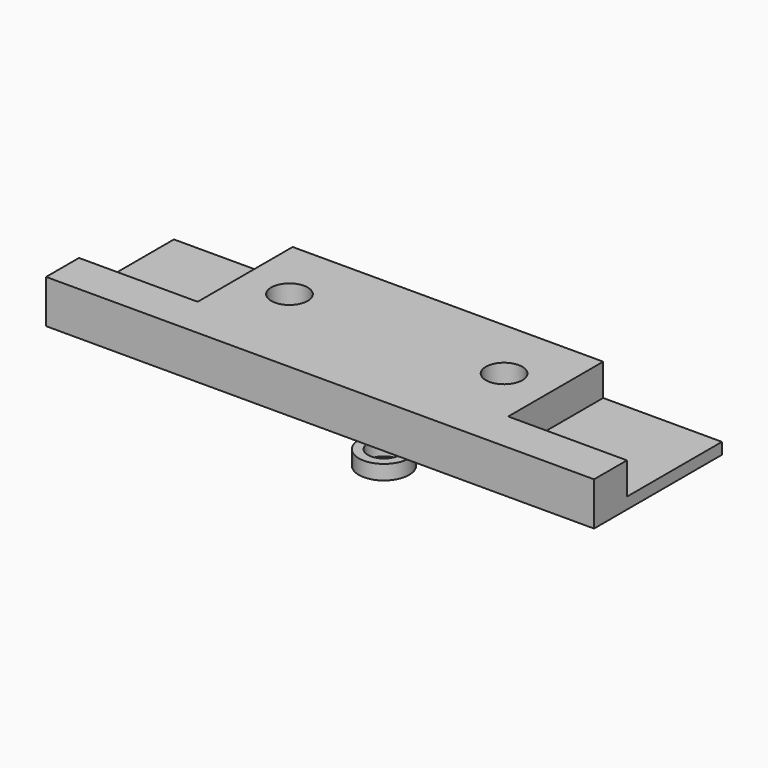
from build123d import *

# Parameters (mm, degrees)
SKETCH_W        = 60
SKETCH_H        = 17.5
PAD_DEPTH       = 12
SKETCH001_R     = 2
POCKET_DEPTH    = 12.001
SKETCH002_W     = 13
SKETCH002_H     = 13
POCKET001_DEPTH = 3.5
POCKET002_DEPTH = 7.25
POCKET003_DEPTH = 2
SKETCH005_R     = 1.75
POCKET004_DEPTH = 5
SKETCH006_R     = 2.75
PAD001_DEPTH    = 1.6
SKETCH007_R     = 1.75
POCKET005_DEPTH = 5


with BuildPart() as body:
    # Sketch → Pad (new body)
    with BuildSketch(Plane.XY):
        Rectangle(SKETCH_W, SKETCH_H)
    extrude(amount=PAD_DEPTH)

    # Sketch001 (on Face6 of Pad) → Pocket (cut, through all)
    with BuildSketch(Plane.XY.offset(12)):
        with Locations((-11.75, 1.75)):
            Circle(SKETCH001_R)
        with Locations((11.75, 1.75)):
            Circle(SKETCH001_R)
    extrude(amount=-POCKET_DEPTH, mode=Mode.SUBTRACT)

    # Sketch002 (on Face5 of Pocket) → Pocket001 (cut)
    with BuildSketch(Plane.XY.offset(12)):
        with Locations((-23.5, 2.25)):
            Rectangle(SKETCH002_W, SKETCH002_H)
        with Locations((23.5, 2.25)):
            Rectangle(SKETCH002_W, SKETCH002_H)
    extrude(amount=-POCKET001_DEPTH, mode=Mode.SUBTRACT)

    # Sketch003 (on Face2 of Pocket001) → Pocket002 (cut)
    with BuildSketch(Plane(origin=(0, 0, 0), x_dir=(1, 0, 0), z_dir=(0, 0, -1))):
        Polygon((-30, 8.75), (-30, -8.75), (-17, -8.75), (-17, -5.325445), (17, -5.325445), (17, -8.75), (30, -8.75), (30, 8.75), align=None)
    extrude(amount=-POCKET002_DEPTH, mode=Mode.SUBTRACT)

    # Sketch004 (on Face2 of Pocket002) → Pocket003 (cut)
    with BuildSketch(Plane(origin=(0, 0, 7.25), x_dir=(1, 0, 0), z_dir=(0, 0, -1))):
        Polygon((-9.271977, -3.440977), (-9.04656, -0.449458), (-11.524582, 1.241519), (-14.228023, -0.059023), (-14.45344, -3.050542), (-11.975418, -4.741519), align=None)
        Polygon((14.316039, -3.30417), (14.37897, -0.30483), (11.812931, 1.24934), (9.183961, -0.19583), (9.12103, -3.19517), (11.687069, -4.74934), align=None)
    extrude(amount=-POCKET003_DEPTH, mode=Mode.SUBTRACT)

    # Sketch005 (on Face10 of Pocket003) → Pocket004 (cut)
    with BuildSketch(Plane.XZ.offset(-5.325445)):
        with Locations((-6.925, 3)):
            Circle(SKETCH005_R)
        with Locations((6.925, 3)):
            Circle(SKETCH005_R)
    extrude(amount=-POCKET004_DEPTH, mode=Mode.SUBTRACT)


with BuildPart() as washer:
    # Sketch006 → Pad001 (new body)
    with BuildSketch(Plane.XY):
        Circle(SKETCH006_R)
    extrude(amount=PAD001_DEPTH)

    # Sketch007 (on Face3 of Pad001) → Pocket005 (cut)
    with BuildSketch(Plane.XY.offset(1.6)):
        Circle(SKETCH007_R)
    extrude(amount=-POCKET005_DEPTH, mode=Mode.SUBTRACT)


solid = Compound([body.part, washer.part])
